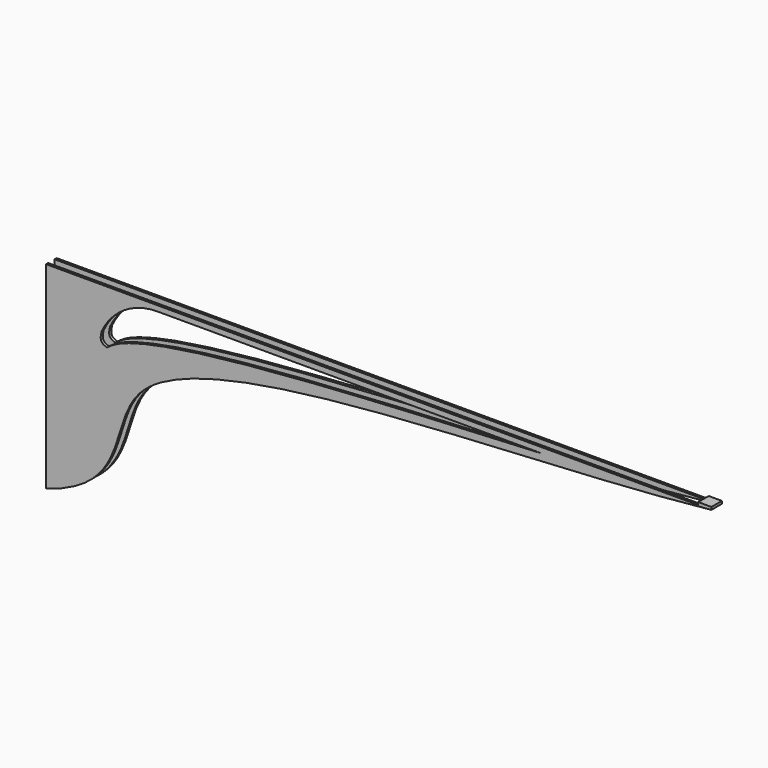
from build123d import *

# Parameters (mm, degrees)
F1_DEPTH = 10
F2_W     = 10
F2_H     = 6
F2_H_2   = 2
F3_DEPTH = 2
F2_W_2   = 494.9598616024
F4_DEPTH = 150.0010001


with BuildPart() as f1:
    # F0 (on Front) → F1 (new body)
    with BuildSketch(Plane.XZ):
        with BuildLine():
            Line((37.9044083604, 150), (0, 150))
            Line((0, 150), (0, 0))
            add(Edge.make_bspline(
                [(0, 0), (65.9548709809, 19.5921129568), (43.1213805036, 68.0755041216), (81.5244080495, 96.0947031217), (87.4206218721, 99.4202668856)],
                knots=[0, 0, 0, 0, 0.3385952036, 0.3890383434, 0.3890383434, 0.3890383434, 0.3890383434], degree=3))
            Line((87.4206218721, 99.4202668856), (37.9044083604, 99.4202668856))
            Line((37.9044083604, 99.4202668856), (37.9044083604, 150))
        make_face()
        with BuildLine():
            Line((504.9598616024, 150), (37.9044083604, 150))
            Line((37.9044083604, 150), (37.9044083604, 99.4202668856))
            Line((37.9044083604, 99.4202668856), (87.4206218721, 99.4202668856))
            add(Edge.make_bspline(
                [(87.4206218721, 99.4202668856), (158.8349029243, 139.6991225106), (364.7468882992, 134.8777226964), (504.9598616024, 150)],
                knots=[0.3890383434, 0.3890383434, 0.3890383434, 0.3890383434, 1, 1, 1, 1], degree=3))
        make_face()
        with BuildLine():
            add(Edge.make_bspline(
                [(37.9044083604, 99.4202668856), (40.1391890242, 102.808774449), (42.3662939341, 106.1864082233), (46.2967331171, 109.3798892374)],
                knots=[0, 0, 0, 0, 0.1315547467, 0.1315547467, 0.1315547467, 0.1315547467], degree=3))
            ThreePointArc((37.9044083604, 99.4202668856), (38.9960657633, 109.4313669005), (42.2197256275, 118.9719044364))
            ThreePointArc((42.2197256275, 118.9719044364), (59.3599813963, 138.5720081749), (84.3538892703, 145.8697477955))
            Line((84.3538892703, 145.8697477955), (376.7651616806, 145.8697477955))
            add(Edge.make_bspline(
                [(46.3079142071, 109.3889696428), (48.8136397524, 111.4229766396), (81.946033288, 131.7241322969), (236.8391321907, 139.1866338489), (376.7651616806, 145.8697477955)],
                knots=[0.131679442, 0.131679442, 0.131679442, 0.131679442, 0.2154790768, 1, 1, 1, 1], degree=3))
            add(Edge.make_bspline(
                [(46.2967331171, 109.3798892374), (46.3055893224, 109.3814463555), (46.3067854724, 109.3853258877), (46.3079142071, 109.3889696428)],
                knots=[0.9757300046, 0.9757300046, 0.9757300046, 0.9757300046, 1, 1, 1, 1], degree=3))
        make_face(mode=Mode.SUBTRACT)
        with BuildLine():
            Line((37.9044083604, 150), (0, 150))
            Line((0, 150), (0, 0))
            add(Edge.make_bspline(
                [(0, 0), (65.9548709809, 19.5921129568), (43.1213805036, 68.0755041216), (81.5244080495, 96.0947031217), (87.4206218721, 99.4202668856)],
                knots=[0, 0, 0, 0, 0.3385952036, 0.3890383434, 0.3890383434, 0.3890383434, 0.3890383434], degree=3))
            Line((87.4206218721, 99.4202668856), (37.9044083604, 99.4202668856))
            Line((37.9044083604, 99.4202668856), (37.9044083604, 150))
        make_face()
        with BuildLine():
            Line((504.9598616024, 150), (37.9044083604, 150))
            Line((37.9044083604, 150), (37.9044083604, 99.4202668856))
            Line((37.9044083604, 99.4202668856), (87.4206218721, 99.4202668856))
            add(Edge.make_bspline(
                [(87.4206218721, 99.4202668856), (158.8349029243, 139.6991225106), (364.7468882992, 134.8777226964), (504.9598616024, 150)],
                knots=[0.3890383434, 0.3890383434, 0.3890383434, 0.3890383434, 1, 1, 1, 1], degree=3))
        make_face()
        with BuildLine():
            add(Edge.make_bspline(
                [(37.9044083604, 99.4202668856), (40.1391890242, 102.808774449), (42.3662939341, 106.1864082233), (46.2967331171, 109.3798892374)],
                knots=[0, 0, 0, 0, 0.1315547467, 0.1315547467, 0.1315547467, 0.1315547467], degree=3))
            ThreePointArc((37.9044083604, 99.4202668856), (38.9960657633, 109.4313669005), (42.2197256275, 118.9719044364))
            ThreePointArc((42.2197256275, 118.9719044364), (59.3599813963, 138.5720081749), (84.3538892703, 145.8697477955))
            Line((84.3538892703, 145.8697477955), (376.7651616806, 145.8697477955))
            add(Edge.make_bspline(
                [(46.3079142071, 109.3889696428), (48.8136397524, 111.4229766396), (81.946033288, 131.7241322969), (236.8391321907, 139.1866338489), (376.7651616806, 145.8697477955)],
                knots=[0.131679442, 0.131679442, 0.131679442, 0.131679442, 0.2154790768, 1, 1, 1, 1], degree=3))
            add(Edge.make_bspline(
                [(46.2967331171, 109.3798892374), (46.3055893224, 109.3814463555), (46.3067854724, 109.3853258877), (46.3079142071, 109.3889696428)],
                knots=[0.9757300046, 0.9757300046, 0.9757300046, 0.9757300046, 1, 1, 1, 1], degree=3))
        make_face(mode=Mode.SUBTRACT)
        with BuildLine():
            ThreePointArc((42.2197256275, 118.9719044364), (38.9960657633, 109.4313669005), (37.9044083604, 99.4202668856))
            add(Edge.make_bspline(
                [(37.9044083604, 99.4202668856), (40.1391890242, 102.808774449), (42.3662939341, 106.1864082233), (46.2967331171, 109.3798892374)],
                knots=[0, 0, 0, 0, 0.1315547467, 0.1315547467, 0.1315547467, 0.1315547467], degree=3))
            add(Edge.make_bspline(
                [(42.2197256275, 118.9719044364), (41.4295743237, 115.9331579648), (40.5211265672, 110.8878487784), (46.1452352099, 109.3532525312), (46.2967331171, 109.3798892374)],
                knots=[0, 0, 0, 0, 0.5605574336, 0.9757300046, 0.9757300046, 0.9757300046, 0.9757300046], degree=3))
        make_face()
    extrude(amount=F1_DEPTH)

    # F2 (on face) → F4 (cut, through all)
    with BuildSketch(Plane.XY.offset(150)):
        with Locations((247.4799308012, -5)):
            Rectangle(F2_W_2, F2_H)
        with Locations((499.9598616024, -5)):
            Rectangle(F2_W, F2_H)
    extrude(amount=-F4_DEPTH, mode=Mode.SUBTRACT)


with BuildPart() as f3:
    # F2 (on face) → F3 (new body)
    with BuildSketch(Plane.XY.offset(150)):
        with Locations((499.9598616024, -5)):
            Rectangle(F2_W, F2_H)
        with Locations((499.9598616024, -1)):
            Rectangle(F2_W, F2_H_2)
        with Locations((499.9598616024, -9)):
            Rectangle(F2_W, F2_H_2)
    extrude(amount=F3_DEPTH)


solid = Compound([f1.part, f3.part])
